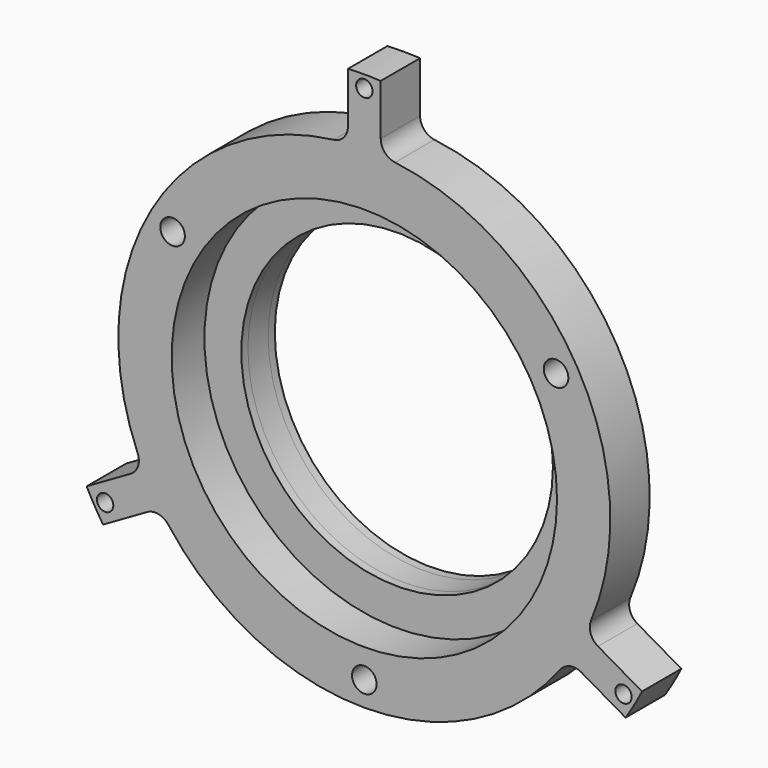
from build123d import *

# Parameters (mm, degrees)
F0_R      = 38
F0_R_2    = 19
F1_DEPTH  = 6
F2_R      = 22
F2_R_2    = 19
F3_DEPTH  = 3.1
F4_R      = 19
F5_DEPTH  = 1
F7_D      = 2
F7_DEPTH  = 4
F7_TIP    = 0.600860619
F9_D      = 3
F9_DEPTH  = 3
F9_TIP    = 0.9012909285
F10_D     = 2
F10_DEPTH = 5
F10_TIP   = 0.600860619
F12_DEPTH = 10.101
F13_R     = 23.5
F14_DEPTH = 5


with BuildPart() as f1:
    # F0 (on Front) → F1 (new body)
    with BuildSketch(Plane.XZ):
        Circle(F0_R)
        Circle(F0_R_2, mode=Mode.SUBTRACT)
    extrude(amount=F1_DEPTH)

    # F2 (on face) → F3 (join)
    with BuildSketch(Plane(origin=(0, 0, 0), x_dir=(-1, 0, 0), z_dir=(0, 1, 0))):
        Circle(F2_R)
        Circle(F2_R_2, mode=Mode.SUBTRACT)
    extrude(amount=F3_DEPTH)

    # F7
    with Locations(Plane(origin=(0, 0, 0), x_dir=(-1, 0, 0), z_dir=(0, 1, 0))):
        with Locations((26, 0)):
            Hole(F7_D / 2, depth=F7_DEPTH)
            with Locations((0, 0, -(F7_DEPTH + F7_TIP / 2))):  # 118° drill point
                Cone(0, F7_D / 2, F7_TIP, mode=Mode.SUBTRACT)

    # F9
    with Locations(Plane.XZ.offset(6)):
        with Locations((23.3826859022, 13.5), (-23.3826859022, 13.5), (0, -27)):
            Hole(F9_D / 2, depth=F9_DEPTH)
            with Locations((0, 0, -(F9_DEPTH + F9_TIP / 2))):  # 118° drill point
                Cone(0, F9_D / 2, F9_TIP, mode=Mode.SUBTRACT)

    # F10
    with Locations(Plane.XZ.offset(6)):
        with Locations((0, 36.5), (31.6099272381, -18.25), (-31.6099272381, -18.25)):
            Hole(F10_D / 2, depth=F10_DEPTH)
            with Locations((0, 0, -(F10_DEPTH + F10_TIP / 2))):  # 118° drill point
                Cone(0, F10_D / 2, F10_TIP, mode=Mode.SUBTRACT)


with BuildPart() as f5:
    # F4 (on face) → F5 (new body)
    with BuildSketch(Plane(origin=(0, 3.1, 0), x_dir=(-1, 0, 0), z_dir=(0, 1, 0))):
        with BuildLine():
            Line((-21.1477573106, 6.064021828), (-22.3012713458, 6.394786655))
            ThreePointArc((-22.3012713458, 6.394786655), (-23.0270707181, -2.827368767), (-20.0917893678, -11.6))
            Line((-20.0917893678, -11.6), (-19.0525588833, -11))
            ThreePointArc((-19.0525588833, -11), (-8.5960848268, -20.251106776), (5.3222817032, -21.3465059781))
            Line((5.3222817032, -21.3465059781), (5.6125879779, -22.5108608496))
            ThreePointArc((5.6125879779, -22.5108608496), (13.9621085371, -18.5283438331), (20.0917893678, -11.6))
            Line((20.0917893678, -11.6), (19.0525588833, -11))
            ThreePointArc((19.0525588833, -11), (21.8360153361, 2.6811255549), (15.8254756075, 15.2824841501))
            Line((15.8254756075, 15.2824841501), (16.6886833679, 16.1160741946))
            ThreePointArc((16.6886833679, 16.1160741946), (9.064962181, 21.3557126001), (0, 23.2))
            Line((0, 23.2), (0, 22))
            ThreePointArc((0, 22), (-13.2399305093, 17.569981221), (-21.1477573106, 6.064021828))
        make_face()
        Circle(F4_R, mode=Mode.SUBTRACT)
    extrude(amount=F5_DEPTH)


with BuildPart() as f12_tool:
    # F11 (on face) → F12 (new body, through all)
    with BuildSketch(Plane.XZ.offset(6)):
        with BuildLine():
            ThreePointArc((-2, 31.7490157328), (-2.5, 30.4261400772), (-3.75, 29.7647022495))
            ThreePointArc((-3.75, 29.7647022495), (-25.9807621135, 15), (-27.6519882841, -11.6347558605))
            ThreePointArc((-27.6519882841, -11.6347558605), (-27.599810246, -13.0480065292), (-28.4954541697, -14.1424570588))
            Line((-28.4954541697, -14.1424570588), (-33.8633534503, -17.2416151534))
            ThreePointArc((-33.8633534503, -17.2416151534), (-32.9089653438, -19), (-31.8633534503, -20.7057167686))
            Line((-31.8633534503, -20.7057167686), (-26.4954541697, -17.606558674))
            ThreePointArc((-26.4954541697, -17.606558674), (-25.099810246, -17.3781335481), (-23.9019882841, -18.1299463889))
            ThreePointArc((-23.9019882841, -18.1299463889), (0, -30), (23.9019882841, -18.1299463889))
            ThreePointArc((23.9019882841, -18.1299463889), (25.099810246, -17.3781335481), (26.4954541697, -17.606558674))
            Line((26.4954541697, -17.606558674), (31.8633534503, -20.7057167686))
            ThreePointArc((31.8633534503, -20.7057167686), (32.9089653438, -19), (33.8633534503, -17.2416151534))
            Line((33.8633534503, -17.2416151534), (28.4954541697, -14.1424570588))
            ThreePointArc((28.4954541697, -14.1424570588), (27.599810246, -13.0480065292), (27.6519882841, -11.6347558605))
            ThreePointArc((27.6519882841, -11.6347558605), (25.9807621135, 15), (3.75, 29.7647022495))
            ThreePointArc((3.75, 29.7647022495), (2.5, 30.4261400772), (2, 31.7490157328))
            Line((2, 31.7490157328), (2, 37.947331922))
            ThreePointArc((2, 37.947331922), (0, 38), (-2, 37.947331922))
            Line((-2, 37.947331922), (-2, 31.7490157328))
        make_face()
    extrude(amount=-F12_DEPTH)


with BuildPart() as f1_1:
    add(f1.part)

    # F12: intersect by f12_tool
    add(f12_tool.part, mode=Mode.INTERSECT)

    # F13 (on face) → F14 (cut)
    with BuildSketch(Plane.XZ.offset(6)):
        Circle(F13_R)
    extrude(amount=-F14_DEPTH, mode=Mode.SUBTRACT)


with BuildPart() as f5_1:
    add(f5.part)

    # F12: intersect by f12_tool
    add(f12_tool.part, mode=Mode.INTERSECT)


solid = Compound([f1_1.part, f5_1.part])
